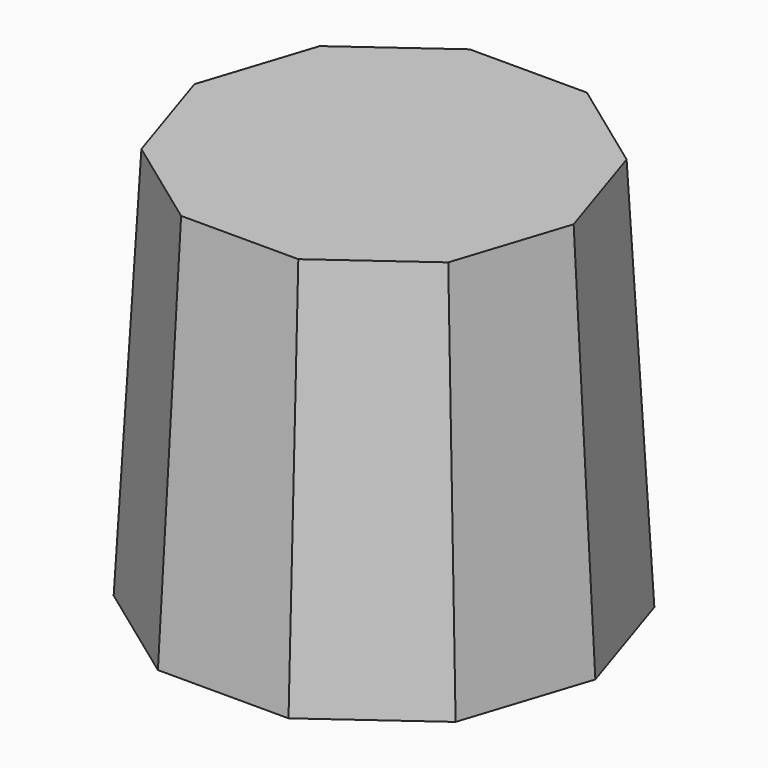
from build123d import *

# Parameters (mm, degrees)
F1_DEPTH = 50.8
F1_TAPER = 3


with BuildPart() as f1:
    # F0 (on Top) → F1 (new body)
    with BuildSketch(Plane.XY):
        Polygon((8.4272207484, 25.9363185614), (-8.4272207484, 25.9363185614), (-22.06275035, 16.029526414), (-27.2710592032, 0), (-22.06275035, -16.029526414), (-8.4272207484, -25.9363185614), (8.4272207484, -25.9363185614), (22.06275035, -16.029526414), (27.2710592032, 0), (22.06275035, 16.029526414), align=None)
    extrude(amount=F1_DEPTH, taper=F1_TAPER)


solid = f1.part
